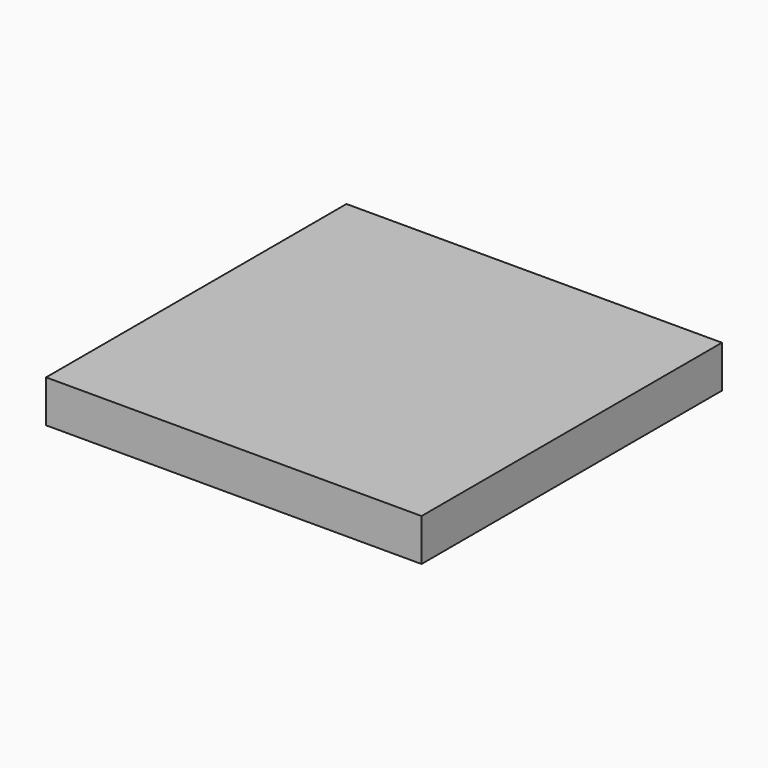
from build123d import *

# Parameters (mm, degrees)
SKETCH_W  = 4
SKETCH_H  = 4
PAD_DEPTH = 0.45


with BuildPart() as part:
    # Sketch → Pad (new body)
    with BuildSketch(Plane.XY):
        Rectangle(SKETCH_W, SKETCH_H)
    extrude(amount=PAD_DEPTH)


solid = part.part
